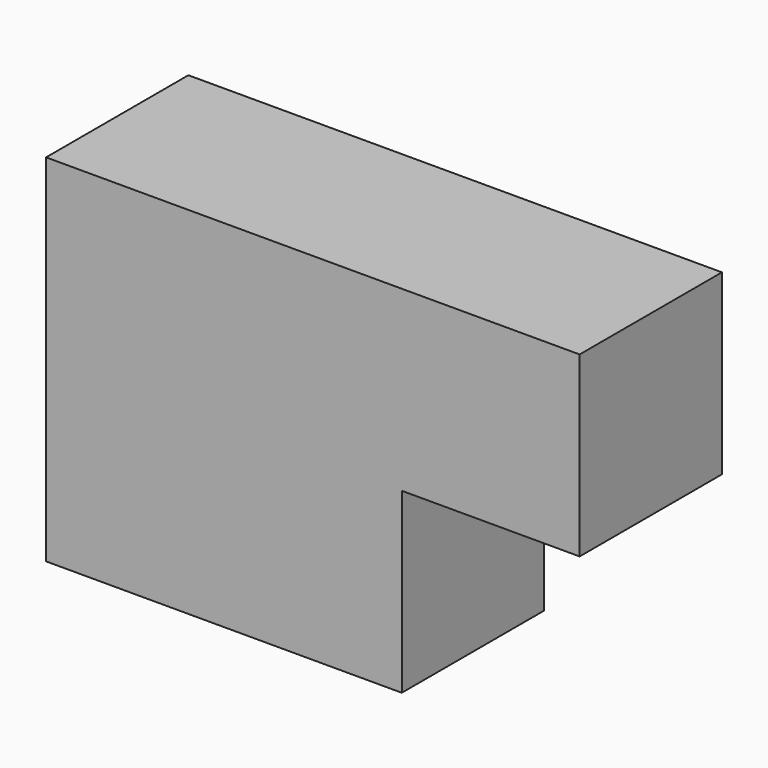
from build123d import *

# Parameters (mm, degrees)
F1_W     = 38.1
F1_H     = 19.05
F2_DEPTH = 19.05
F3_W     = 57.15
F3_H     = 19.05
F4_DEPTH = 19.05


with BuildPart() as f2:
    # F1 (on offset) → F2 (new body)
    with BuildSketch(Plane.XY.offset(25.4)):
        with Locations((19.05, -47.625)):
            Rectangle(F1_W, F1_H)
    extrude(amount=F2_DEPTH)

    # F3 (on face) → F4 (join)
    with BuildSketch(Plane.XY.offset(44.45)):
        with Locations((28.575, -47.625)):
            Rectangle(F3_W, F3_H)
    extrude(amount=F4_DEPTH)


solid = f2.part
